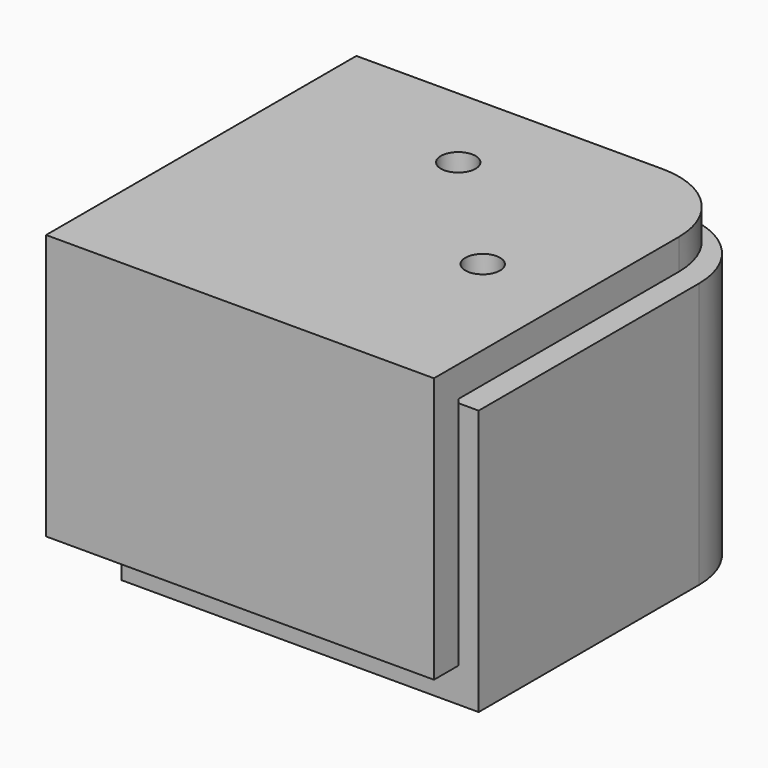
from build123d import *

# Parameters (mm, degrees)
SKETCH001_W     = 35
SKETCH001_H     = 35
PAD001_DEPTH    = 26
SKETCH_W        = 38
SKETCH_H        = 38
PAD_DEPTH       = 26
FILLET001_R     = 8
SKETCH004_R     = 1.7
POCKET001_DEPTH = 3.001
SKETCH002_W     = 35
SKETCH002_H     = 35
PAD002_DEPTH    = 26
SKETCH003_R     = 1.6
POCKET_DEPTH    = 26.001
FILLET_R        = 8


with BuildPart() as obj1:
    # Sketch001 → Pad001 (new body)
    with BuildSketch(Plane.XY):
        with Locations((17.5, 17.5)):
            Rectangle(SKETCH001_W, SKETCH001_H)
    extrude(amount=PAD001_DEPTH)


with BuildPart() as obj1_1:
    # Body001 placement: moved
    add(obj1.part.moved(Location((3, 3, -3))))


with BuildPart() as obj2:
    # Sketch → Pad (new body)
    with BuildSketch(Plane.XY):
        with Locations((19, 19)):
            Rectangle(SKETCH_W, SKETCH_H)
    extrude(amount=PAD_DEPTH)

    # Fillet001
    fillet001_edges = [obj2.edges().sort_by_distance(p)[0] for p in [
        (38, 38, 13),
    ]]
    fillet(fillet001_edges, radius=FILLET001_R)

    # Boolean: cut obj1
    add(obj1_1.part, mode=Mode.SUBTRACT)

    # Sketch004 (on Face4 of Boolean) → Pocket001 (cut, through all)
    with BuildSketch(Plane(origin=(0, 0, 23), x_dir=(1, 0, 0), z_dir=(0, 0, -1))):
        with Locations((29.1, -17.1)):
            Circle(SKETCH004_R)
        with Locations((17.1, -29.1)):
            Circle(SKETCH004_R)
    extrude(amount=-POCKET001_DEPTH, mode=Mode.SUBTRACT)


with BuildPart() as obj3:
    # Sketch002 → Pad002 (new body)
    with BuildSketch(Plane.XY):
        with Locations((17.5, 17.5)):
            Rectangle(SKETCH002_W, SKETCH002_H)
    extrude(amount=PAD002_DEPTH)

    # Sketch003 (on Face6 of Pad002) → Pocket (cut, through all)
    with BuildSketch(Plane.XY.offset(26)):
        with Locations((25, 13)):
            Circle(SKETCH003_R)
        with Locations((13, 25)):
            Circle(SKETCH003_R)
    extrude(amount=-POCKET_DEPTH, mode=Mode.SUBTRACT)

    # Fillet
    fillet_edges = [obj3.edges().sort_by_distance(p)[0] for p in [
        (35, 35, 13),
    ]]
    fillet(fillet_edges, radius=FILLET_R)


with BuildPart() as obj3_1:
    # Body002 placement: moved
    add(obj3.part.moved(Location((4.1, 4.1, -4.1))))


solid = Compound([obj2.part, obj3_1.part])
